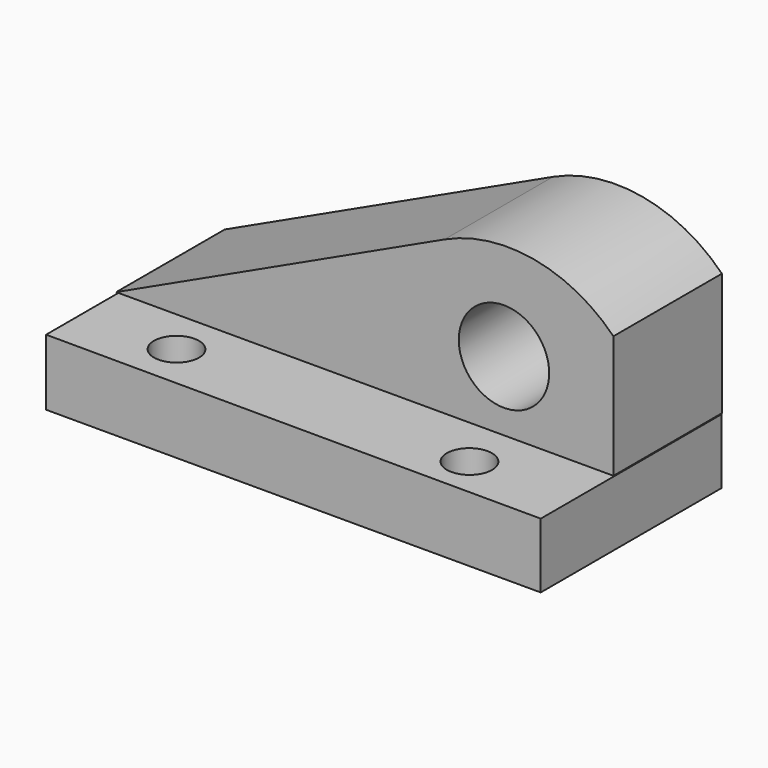
from build123d import *

# Parameters (mm, degrees)
F2_DEPTH = 38.1
F3_DEPTH = 63.5
F5_D     = 25.4
F7_D     = 12.7
F9_D     = 12.7


with BuildPart() as f2:
    # F0 (on Front) → F2 (new body)
    with BuildSketch(Plane.XZ):
        with BuildLine():
            Line((18.9382843673, 8.5117025301), (-73.2976198196, -34.5110818744))
            Line((-73.2976198196, -34.5110818744), (66.4023801804, -34.5110818744))
            Line((66.4023801804, -34.5110818744), (66.4023801804, 0))
            ThreePointArc((66.4023801804, 0), (44.0192688045, 11.7779718411), (18.9382843673, 8.5117025301))
        make_face()
    extrude(amount=F2_DEPTH)

    # F5 (through all)
    with Locations(Plane(origin=(0, 0, 0), x_dir=(1, 0, 0), z_dir=(0, 1, 0))):
        with Locations((35.6521718204, 15.0115480646)):
            Hole(F5_D / 2)


with BuildPart() as f3:
    # F1 (on Front) → F3 (new body)
    with BuildSketch(Plane.XZ):
        Polygon((66.294297576, -53.0820712447), (66.294297576, -34.8206013441), (-72.6785808802, -34.5110818744), (-72.6785808802, -53.0820712447), align=None)
    extrude(amount=F3_DEPTH)

    # F7 (through all)
    with Locations(Plane.XY):
        with Locations((-46.0875891149, -50.9334877133)):
            Hole(F7_D / 2)

    # F9 (through all)
    with Locations(Plane.XY):
        with Locations((37.2124202549, -52.1721504629)):
            Hole(F9_D / 2)


solid = Compound([f2.part, f3.part])
